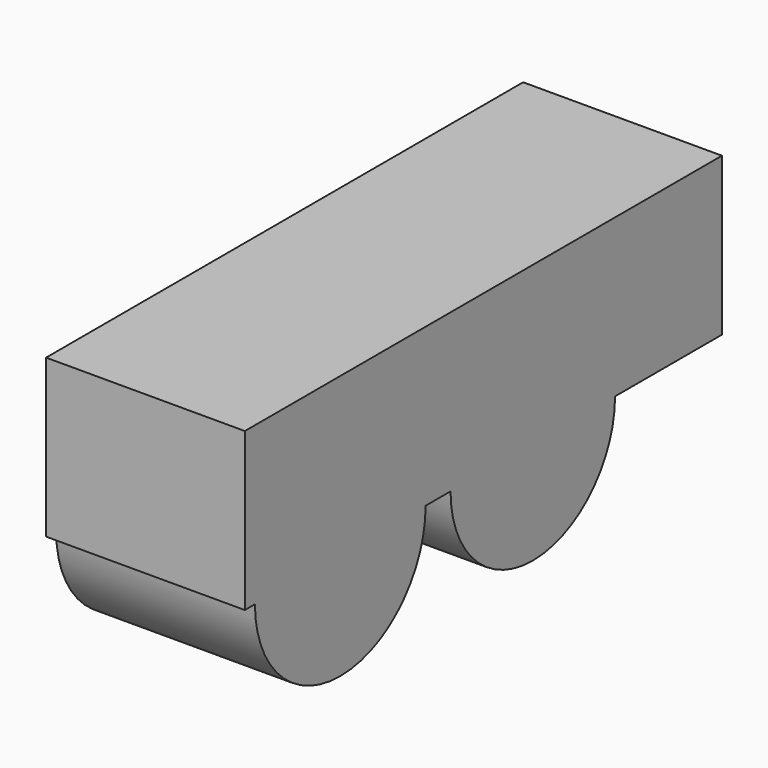
from build123d import *

# Parameters (mm, degrees)
F1_DEPTH = 25.4


with BuildPart() as f1:
    # F0 (on Right) → F1 (new body)
    with BuildSketch(Plane.YZ):
        with BuildLine():
            Line((-2.9690999484, -55.5171445012), (-30.2323300445, -55.5171445012))
            ThreePointArc((-30.2323300445, -55.5171445012), (-16.6007149965, -69.1487595492), (-2.9690999484, -55.5171445012))
        make_face()
        with BuildLine():
            ThreePointArc((1.0150714909, -55.5171445012), (14.1514278948, -68.6535009052), (27.2877842988, -55.5171445012))
            Line((27.2877842988, -55.5171445012), (1.0150714909, -55.5171445012))
        make_face()
        with BuildLine():
            ThreePointArc((-2.9690999484, -55.5171445012), (-16.6007149965, -41.8855294532), (-30.2323300445, -55.5171445012))
            Line((-30.2323300445, -55.5171445012), (-2.9690999484, -55.5171445012))
        make_face()
        with BuildLine():
            Line((1.0150714909, -55.5171445012), (27.2877842988, -55.5171445012))
            ThreePointArc((27.2877842988, -55.5171445012), (14.1514278948, -42.3807880973), (1.0150714909, -55.5171445012))
        make_face()
        with BuildLine():
            Line((-31.8407155573, -35.3785715997), (-31.8407155573, -55.5171445012))
            Line((-31.8407155573, -55.5171445012), (-30.2323300445, -55.5171445012))
            ThreePointArc((-30.2323300445, -55.5171445012), (-16.6007149965, -41.8855294532), (-2.9690999484, -55.5171445012))
            Line((-2.9690999484, -55.5171445012), (1.0150714909, -55.5171445012))
            ThreePointArc((1.0150714909, -55.5171445012), (14.1514278948, -42.3807880973), (27.2877842988, -55.5171445012))
            Line((27.2877842988, -55.5171445012), (44.3592844427, -55.5171445012))
            Line((44.3592844427, -55.5171445012), (44.3592844427, -35.3785715997))
            Line((44.3592844427, -35.3785715997), (-31.8407155573, -35.3785715997))
        make_face()
    extrude(amount=F1_DEPTH)


solid = f1.part
